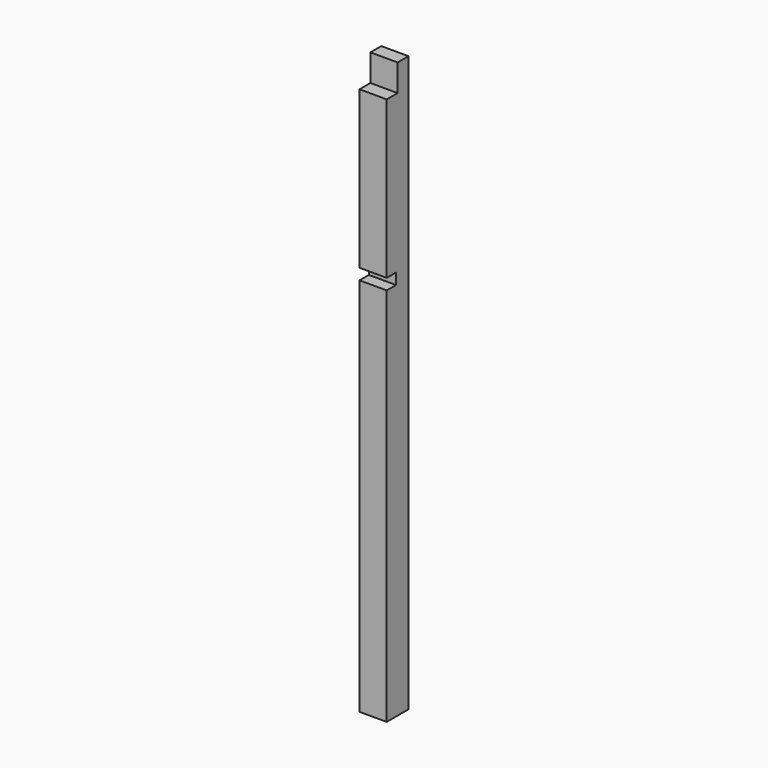
from build123d import *

# Parameters (mm, degrees)
F0_W     = 42
F0_H     = 42
F1_DEPTH = 887
F2_W     = 21
F2_H     = 41.604375
F3_DEPTH = 42
F4_W     = 18
F4_H     = 17
F5_DEPTH = 42


with BuildPart() as f1:
    # F0 (on Top) → F1 (new body)
    with BuildSketch(Plane.XY):
        with Locations((-34.786186, 16.720576)):
            Rectangle(F0_W, F0_H)
    extrude(amount=F1_DEPTH)

    # F2 (on face) → F3 (cut)
    with BuildSketch(Plane.YZ.offset(-13.786186)):
        with Locations((6.220576, 866.197813)):
            Rectangle(F2_W, F2_H)
    extrude(amount=-F3_DEPTH, mode=Mode.SUBTRACT)

    # F4 (on face) → F5 (cut)
    with BuildSketch(Plane.YZ.offset(-13.786186)):
        with Locations((4.720576, 594.488045)):
            Rectangle(F4_W, F4_H)
    extrude(amount=-F5_DEPTH, mode=Mode.SUBTRACT)


solid = f1.part
